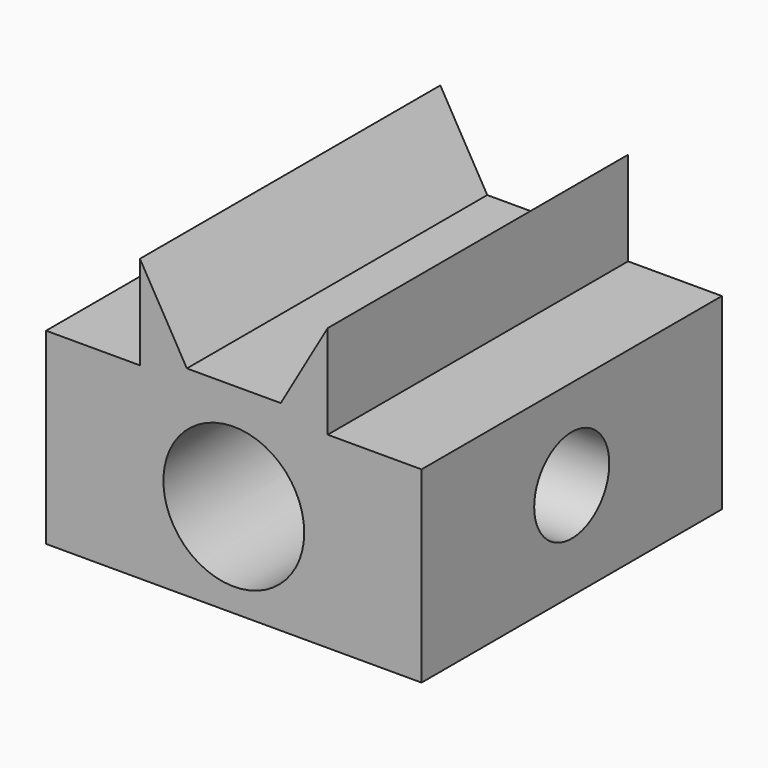
from build123d import *

# Parameters (mm, degrees)
F0_W     = 101.6
F0_H     = 50.8
F1_DEPTH = 101.6
F2_W     = 50.8
F2_H     = 101.6
F3_DEPTH = 25.4
F5_DEPTH = 101.6
F6_R     = 19.05
F7_DEPTH = 101.6
F8_R     = 12.7
F9_DEPTH = 101.6


with BuildPart() as f1:
    # F0 (on Front) → F1 (new body)
    with BuildSketch(Plane.XZ):
        with Locations((50.8, 25.4)):
            Rectangle(F0_W, F0_H)
    extrude(amount=F1_DEPTH)

    # F2 (on face) → F3 (join)
    with BuildSketch(Plane.XY.offset(50.8)):
        with Locations((50.8, -50.8)):
            Rectangle(F2_W, F2_H)
    extrude(amount=F3_DEPTH)

    # F4 (on face) → F5 (cut)
    with BuildSketch(Plane.XZ.offset(101.6)):
        Polygon((76.2, 76.2), (25.4, 76.2), (38.1, 54.202955), (63.5, 54.202955), align=None)
    extrude(amount=-F5_DEPTH, mode=Mode.SUBTRACT)

    # F6 (on face) → F7 (cut)
    with BuildSketch(Plane.XZ.offset(101.6)):
        with Locations((50.8, 25.4)):
            Circle(F6_R)
    extrude(amount=-F7_DEPTH, mode=Mode.SUBTRACT)

    # F8 (on face) → F9 (cut)
    with BuildSketch(Plane(origin=(0, 0, 0), x_dir=(0, -1, 0), z_dir=(-1, 0, 0))):
        with Locations((50.8, 26.370544)):
            Circle(F8_R)
    extrude(amount=-F9_DEPTH, mode=Mode.SUBTRACT)


solid = f1.part
